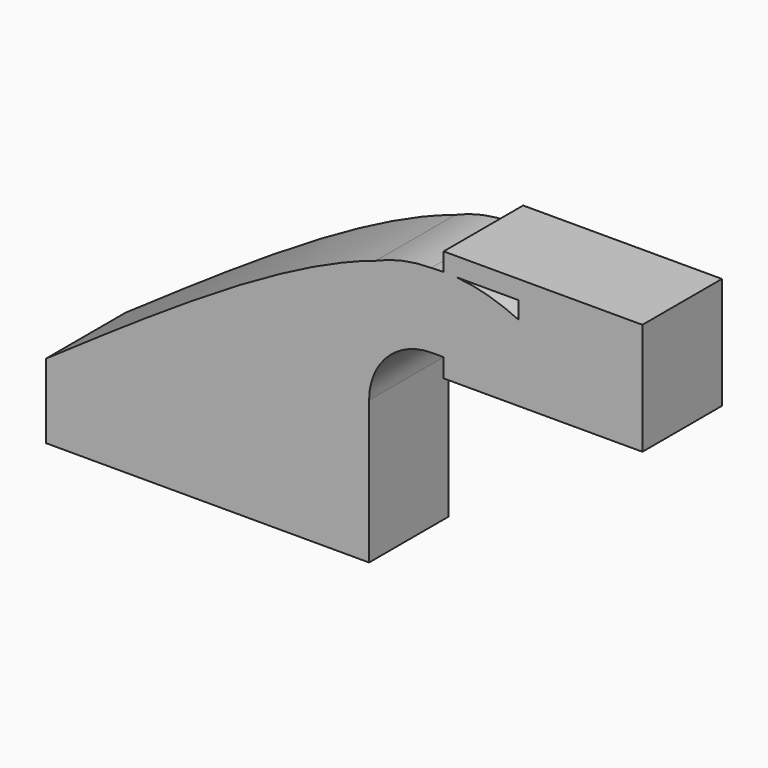
from build123d import *

# Parameters (mm, degrees)
F1_DEPTH = 25.4


with BuildPart() as f1:
    # F0 (on Front) → F1 (new body)
    with BuildSketch(Plane.XZ):
        with BuildLine():
            add(Edge.make_bspline(
                [(-41.275, 9.525), (-11.0804249201, 30.3606307657), (19.1141501598, 51.1962615313), (42.965290813, 58.9149246625)],
                knots=[0, 0, 0, 0, 0.5181088639, 0.5181088639, 0.5181088639, 0.5181088639], degree=3))
            Line((-41.275, 9.525), (22.225, 9.525))
            Line((22.225, 9.525), (22.225, 27.0002))
            ThreePointArc((22.225, 27.0002), (27.86556221, 46.0311571047), (42.965290813, 58.9149246625))
        make_face()
        Polygon((22.225, 9.525), (-41.275, 9.525), (-41.275, -9.525), (41.275, -9.525), (41.275, 9.525), align=None)
        with BuildLine():
            Line((22.225, 27.0002), (22.225, 9.525))
            Line((22.225, 9.525), (41.275, 9.525))
            Line((41.275, 9.525), (41.275, 27.0002))
            ThreePointArc((41.275, 27.0002), (45.9246798487, 38.2255201513), (57.15, 42.8752))
            Line((57.15, 42.8752), (60.325, 42.8752))
            Line((60.325, 42.8752), (60.325, 61.9252))
            Line((60.325, 61.9252), (57.15, 61.9252))
            add(Edge.make_bspline(
                [(42.965290813, 58.9149246625), (47.9955126784, 60.5427959923), (52.7435843005, 61.5872364295), (57.15, 61.9252)],
                knots=[0.5181088639, 0.5181088639, 0.5181088639, 0.5181088639, 0.6273783774, 0.6273783774, 0.6273783774, 0.6273783774], degree=3))
            ThreePointArc((42.965290813, 58.9149246625), (27.86556221, 46.0311571047), (22.225, 27.0002))
        make_face()
        with BuildLine():
            ThreePointArc((57.15, 61.9252), (49.8996942767, 61.1643433658), (42.965290813, 58.9149246625))
            add(Edge.make_bspline(
                [(42.965290813, 58.9149246625), (47.9955126784, 60.5427959923), (52.7435843005, 61.5872364295), (57.15, 61.9252)],
                knots=[0.5181088639, 0.5181088639, 0.5181088639, 0.5181088639, 0.6273783774, 0.6273783774, 0.6273783774, 0.6273783774], degree=3))
        make_face()
        with BuildLine():
            add(Edge.make_bspline(
                [(57.15, 61.9252), (58.2283036755, 62.0079038085), (59.2861476071, 62.0483009137), (60.325, 62.0494272736)],
                knots=[0.6273783774, 0.6273783774, 0.6273783774, 0.6273783774, 0.6541179604, 0.6541179604, 0.6541179604, 0.6541179604], degree=3))
            Line((57.15, 61.9252), (60.325, 61.9252))
            Line((60.325, 61.9252), (60.325, 62.0494272736))
        make_face()
        with BuildLine():
            Line((63.5542024739, 61.9252), (60.325, 61.9252))
            Line((60.325, 61.9252), (60.325, 42.8752))
            Line((60.325, 42.8752), (79.5137885917, 42.8752))
            Line((79.5137885917, 42.8752), (79.5137885917, 57.5008483247))
            add(Edge.make_bspline(
                [(63.5542024739, 61.9252), (69.3669017095, 61.4695059449), (74.5907566053, 59.7961982711), (79.5137885917, 57.5008483247)],
                knots=[0.6823542793, 0.6823542793, 0.6823542793, 0.6823542793, 0.8377243298, 0.8377243298, 0.8377243298, 0.8377243298], degree=3))
        make_face()
        with BuildLine():
            Line((60.325, 62.0494272736), (60.325, 61.9252))
            Line((60.325, 61.9252), (63.5542024739, 61.9252))
            add(Edge.make_bspline(
                [(60.325, 62.0494272736), (61.4220016822, 62.050616681), (62.4978262371, 62.0080159778), (63.5542024739, 61.9252)],
                knots=[0.6541179604, 0.6541179604, 0.6541179604, 0.6541179604, 0.6823542793, 0.6823542793, 0.6823542793, 0.6823542793], degree=3))
        make_face()
        with BuildLine():
            Line((60.325, 66.675), (60.325, 62.0494272736))
            add(Edge.make_bspline(
                [(60.325, 62.0494272736), (61.4220016822, 62.050616681), (62.4978262371, 62.0080159778), (63.5542024739, 61.9252)],
                knots=[0.6541179604, 0.6541179604, 0.6541179604, 0.6541179604, 0.6823542793, 0.6823542793, 0.6823542793, 0.6823542793], degree=3))
            Line((63.5542024739, 61.9252), (79.5137885917, 61.9252))
            Line((79.5137885917, 61.9252), (79.5137885917, 57.5008483247))
            Line((79.5137885917, 57.5008483247), (79.5137885917, 42.8752))
            Line((79.5137885917, 42.8752), (60.325, 42.8752))
            Line((60.325, 42.8752), (60.325, 38.1))
            Line((60.325, 38.1), (111.125, 38.1))
            Line((111.125, 38.1), (111.125, 66.675))
            Line((111.125, 66.675), (60.325, 66.675))
        make_face()
    extrude(amount=F1_DEPTH)


solid = f1.part
